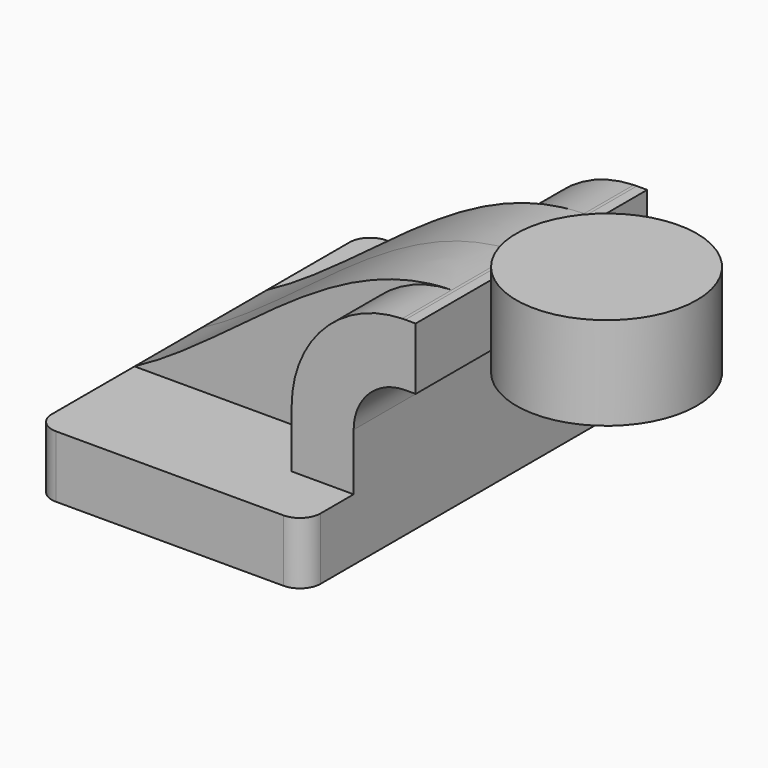
from build123d import *

# Parameters (mm, degrees)
F1_DEPTH = 63.5
F2_DEPTH = 25.4
F3_DEPTH = 44.45
F0_W     = 27.7197288275
F0_H     = 28.575
F5_R     = 6.35


with BuildPart() as f1:
    # F0 (on Front) → F1 (new body, symmetric)
    with BuildSketch(Plane.XZ):
        Polygon((-41.275, -9.525), (41.275, -9.525), (41.275, 9.525), (22.225, 9.525), (-41.275, 9.525), align=None)
    extrude(amount=F1_DEPTH, both=True)

    # F0 (on Front) → F2 (join, symmetric)
    with BuildSketch(Plane.XZ):
        with BuildLine():
            add(Edge.make_bspline(
                [(-41.275, 9.525), (-8.7416619248, 26.8411315561), (18.6592967194, 61.1014551348), (56.1959573796, 61.8994668263)],
                knots=[0, 0, 0, 0, 110.5640017612, 110.5640017612, 110.5640017612, 110.5640017612], degree=3))
            Line((-41.275, 9.525), (22.225, 9.525))
            Line((22.225, 9.525), (22.225, 26.9875))
            ThreePointArc((22.225, 26.9875), (32.1192632598, 51.3435637879), (56.1959573796, 61.8994668263))
        make_face()
    extrude(amount=F2_DEPTH, both=True)

    # F0 (on Front) → F3 (join, symmetric)
    with BuildSketch(Plane.XZ):
        with BuildLine():
            Line((22.225, 9.525), (41.275, 9.525))
            Line((41.275, 9.525), (41.275, 26.9875))
            ThreePointArc((41.275, 26.9875), (45.9246798487, 38.2128201513), (57.15, 42.8625))
            Line((57.15, 42.8625), (60.325, 42.8625))
            Line((60.325, 42.8625), (60.325, 61.9125))
            Line((60.325, 61.9125), (57.15, 61.9125))
            add(Edge.make_bspline(
                [(56.1959573796, 61.8994668263), (56.513244332, 61.9062121971), (56.8312554651, 61.9105667358), (57.15, 61.9125)],
                knots=[110.5640017612, 110.5640017612, 110.5640017612, 110.5640017612, 111.4985685166, 111.4985685166, 111.4985685166, 111.4985685166], degree=3))
            ThreePointArc((56.1959573796, 61.8994668263), (32.1192632598, 51.3435637879), (22.225, 26.9875))
            Line((22.225, 26.9875), (22.225, 9.525))
        make_face()
    extrude(amount=F3_DEPTH, both=True)

    # F0 (on Front) → F4 (revolve)
    with BuildSketch(Plane.XZ):
        with Locations((97.2651355863, 52.3875)):
            Rectangle(F0_W, F0_H)
    revolve(axis=Axis((83.4052711725, 0, 52.3875), (0, 0, 1)))

    # F5
    f5_edges = [f1.edges().sort_by_distance(p)[0] for p in [
        (41.275, -63.5, 0),
        (-41.275, -63.5, 0),
        (-41.275, 63.5, 0),
        (41.275, 63.5, 0),
    ]]
    fillet(f5_edges, radius=F5_R)


solid = f1.part
